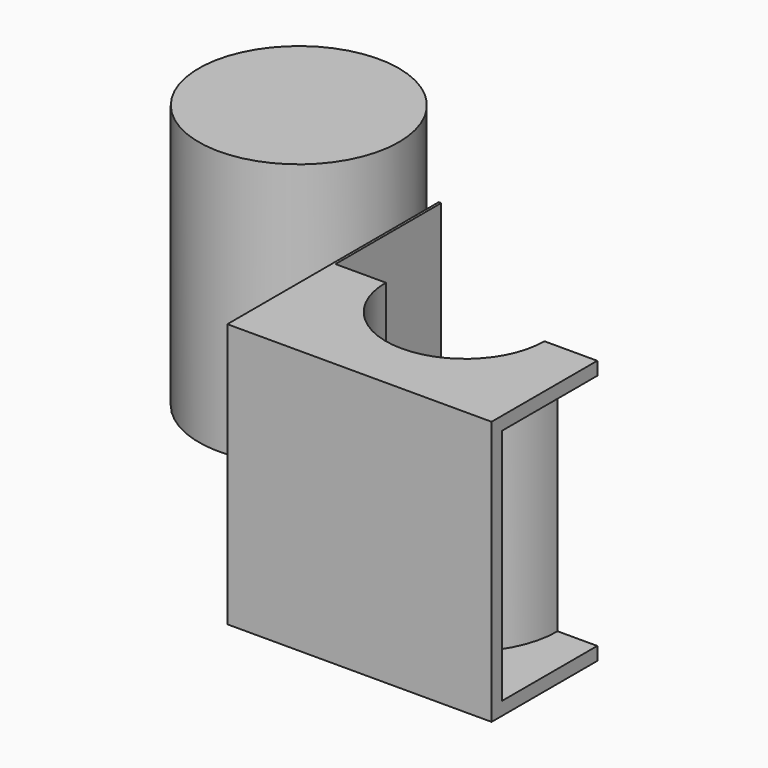
from build123d import *

# Parameters (mm, degrees)
F0_W     = 50
F0_H     = 50
F1_DEPTH = 50
F2_R     = 18.929146
F3_DEPTH = 50
F4_R     = 15
F5_DEPTH = 50
F6_T     = -2.5
F7_W     = 50
F7_H     = 25
F8_DEPTH = 50


with BuildPart() as f1:
    # F0 (on Top) → F1 (new body)
    with BuildSketch(Plane.XY):
        Rectangle(F0_W, F0_H)
    extrude(amount=F1_DEPTH)

    # F4 (on Top) → F5 (cut)
    with BuildSketch(Plane.XY):
        Circle(F4_R)
    extrude(amount=F5_DEPTH, mode=Mode.SUBTRACT)

    # F6
    f6_openings = [f1.faces().sort_by_distance(p)[0] for p in [
        (25, 0, 25),
    ]]
    offset(amount=F6_T, openings=f6_openings)

    # F7 (on Top) → F8 (cut)
    with BuildSketch(Plane.XY):
        with Locations((0.462509, 12.5)):
            Rectangle(F7_W, F7_H)
    extrude(amount=F8_DEPTH, mode=Mode.SUBTRACT)


with BuildPart() as f3:
    # F2 (on Top) → F3 (new body)
    with BuildSketch(Plane.XY):
        with Locations((-60.520839, 36.312502)):
            Circle(F2_R)
    extrude(amount=F3_DEPTH)


solid = Compound([f1.part, f3.part])
